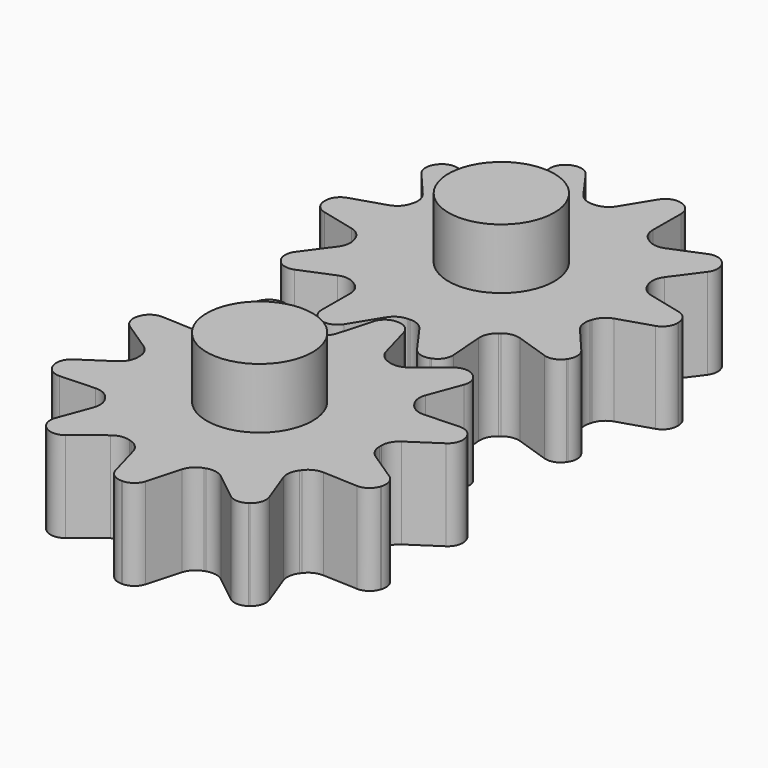
from build123d import *

# Parameters (mm, degrees)
F0_R     = 1.75
F1_DEPTH = 3
F2_R     = 0.5
F3_R     = 0.6
F5_ANGLE = 200
F7_R     = 1.75
F8_DEPTH = 5


with BuildPart() as f1:
    # F0 (on Top) → F1 (new body)
    with BuildSketch(Plane.XY):
        with BuildLine():
            Line((0.9, 3.897435), (0.4, 5.685948))
            ThreePointArc((0.4, 5.685948), (0, 5.7), (-0.4, 5.685948))
            Line((-0.4, 5.685948), (-0.9, 3.897435))
            ThreePointArc((-0.9, 3.897435), (-1.236068, 3.804226), (-1.56274, 3.682098))
            ThreePointArc((-1.56274, 3.682098), (-2.351141, 3.236068), (-3.01897, 2.624084))
            ThreePointArc((-3.01897, 2.624084), (-3.236068, 2.351141), (-3.428566, 2.060325))
            ThreePointArc((-3.428566, 2.060325), (-3.804226, 1.236068), (-3.984796, 0.348423))
            ThreePointArc((-3.984796, 0.348423), (-4, 0), (-3.984796, -0.348423))
            ThreePointArc((-3.984796, -0.348423), (-3.804226, -1.236068), (-3.428566, -2.060325))
            ThreePointArc((-3.428566, -2.060325), (-3.236068, -2.351141), (-3.01897, -2.624084))
            ThreePointArc((-3.01897, -2.624084), (-2.351141, -3.236068), (-1.56274, -3.682098))
            ThreePointArc((-1.56274, -3.682098), (-1.236068, -3.804226), (-0.9, -3.897435))
            ThreePointArc((-0.9, -3.897435), (0, -4), (0.9, -3.897435))
            ThreePointArc((0.9, -3.897435), (1.236068, -3.804226), (1.56274, -3.682098))
            ThreePointArc((1.56274, -3.682098), (2.351141, -3.236068), (3.01897, -2.624084))
            ThreePointArc((3.01897, -2.624084), (3.236068, -2.351141), (3.428566, -2.060325))
            ThreePointArc((3.428566, -2.060325), (3.804226, -1.236068), (3.984796, -0.348423))
            ThreePointArc((3.984796, -0.348423), (4, 0), (3.984796, 0.348423))
            ThreePointArc((3.984796, 0.348423), (3.804226, 1.236068), (3.428566, 2.060325))
            ThreePointArc((3.428566, 2.060325), (3.236068, 2.351141), (3.01897, 2.624084))
            ThreePointArc((3.01897, 2.624084), (2.351141, 3.236068), (1.56274, 3.682098))
            ThreePointArc((1.56274, 3.682098), (1.236068, 3.804226), (0.9, 3.897435))
        make_face()
        Circle(F0_R, mode=Mode.SUBTRACT)
        with BuildLine():
            Line((3.018509, 4.835142), (1.56274, 3.682098))
            ThreePointArc((1.56274, 3.682098), (2.351141, 3.236068), (3.01897, 2.624084))
            Line((3.01897, 2.624084), (3.665723, 4.364914))
            ThreePointArc((3.665723, 4.364914), (3.350376, 4.611397), (3.018509, 4.835142))
        make_face()
        with BuildLine():
            ThreePointArc((-3.01897, 2.624084), (-2.351141, 3.236068), (-1.56274, 3.682098))
            Line((-1.56274, 3.682098), (-3.018509, 4.835142))
            ThreePointArc((-3.018509, 4.835142), (-3.350376, 4.611397), (-3.665723, 4.364914))
            Line((-3.665723, 4.364914), (-3.01897, 2.624084))
        make_face()
        with BuildLine():
            Line((5.284051, 2.137477), (3.428566, 2.060325))
            ThreePointArc((3.428566, 2.060325), (3.804226, 1.236068), (3.984796, 0.348423))
            Line((3.984796, 0.348423), (5.531264, 1.376632))
            ThreePointArc((5.531264, 1.376632), (5.421022, 1.761397), (5.284051, 2.137477))
        make_face()
        with BuildLine():
            ThreePointArc((-3.984796, 0.348423), (-3.804226, 1.236068), (-3.428566, 2.060325))
            Line((-3.428566, 2.060325), (-5.284051, 2.137477))
            ThreePointArc((-5.284051, 2.137477), (-5.421022, 1.761397), (-5.531264, 1.376632))
            Line((-5.531264, 1.376632), (-3.984796, 0.348423))
        make_face()
        with BuildLine():
            Line((5.531264, -1.376632), (3.984796, -0.348423))
            ThreePointArc((3.984796, -0.348423), (3.804226, -1.236068), (3.428566, -2.060325))
            Line((3.428566, -2.060325), (5.284051, -2.137477))
            ThreePointArc((5.284051, -2.137477), (5.421022, -1.761397), (5.531264, -1.376632))
        make_face()
        with BuildLine():
            ThreePointArc((-3.428566, -2.060325), (-3.804226, -1.236068), (-3.984796, -0.348423))
            Line((-3.984796, -0.348423), (-5.531264, -1.376632))
            ThreePointArc((-5.531264, -1.376632), (-5.421022, -1.761397), (-5.284051, -2.137477))
            Line((-5.284051, -2.137477), (-3.428566, -2.060325))
        make_face()
        with BuildLine():
            Line((3.665723, -4.364914), (3.01897, -2.624084))
            ThreePointArc((3.01897, -2.624084), (2.351141, -3.236068), (1.56274, -3.682098))
            Line((1.56274, -3.682098), (3.018509, -4.835142))
            ThreePointArc((3.018509, -4.835142), (3.350376, -4.611397), (3.665723, -4.364914))
        make_face()
        with BuildLine():
            ThreePointArc((-1.56274, -3.682098), (-2.351141, -3.236068), (-3.01897, -2.624084))
            Line((-3.01897, -2.624084), (-3.665723, -4.364914))
            ThreePointArc((-3.665723, -4.364914), (-3.350376, -4.611397), (-3.018509, -4.835142))
            Line((-3.018509, -4.835142), (-1.56274, -3.682098))
        make_face()
        with BuildLine():
            Line((0.4, -5.685948), (0.9, -3.897435))
            ThreePointArc((0.9, -3.897435), (0, -4), (-0.9, -3.897435))
            Line((-0.9, -3.897435), (-0.4, -5.685948))
            ThreePointArc((-0.4, -5.685948), (0, -5.7), (0.4, -5.685948))
        make_face()
    extrude(amount=F1_DEPTH)

    # F2
    f2_edges = [f1.edges().sort_by_distance(p)[0] for p in [
        (0.4, 5.685948, 1.5),
        (-0.4, 5.685948, 1.5),
        (-3.018509, 4.835142, 1.5),
        (-3.665723, 4.364914, 1.5),
        (5.284051, 2.137477, 1.5),
        (5.531264, 1.376632, 1.5),
        (5.531264, -1.376632, 1.5),
        (-5.284051, 2.137477, 1.5),
        (5.284051, -2.137477, 1.5),
        (3.665723, -4.364914, 1.5),
        (3.018509, -4.835142, 1.5),
        (0.4, -5.685948, 1.5),
        (-0.4, -5.685948, 1.5),
        (-3.018509, -4.835142, 1.5),
        (-3.665723, -4.364914, 1.5),
        (-5.284051, -2.137477, 1.5),
        (-5.531264, -1.376632, 1.5),
        (-5.531264, 1.376632, 1.5),
        (3.665723, 4.364914, 1.5),
        (3.018509, 4.835142, 1.5),
    ]]
    fillet(f2_edges, radius=F2_R)

    # F3
    f3_edges = [f1.edges().sort_by_distance(p)[0] for p in [
        (-1.56274, 3.682098, 1.5),
        (0.9, 3.897435, 1.5),
        (1.56274, 3.682098, 1.5),
        (-0.9, 3.897435, 1.5),
        (-3.428566, 2.060325, 1.5),
        (-3.01897, 2.624084, 1.5),
        (3.01897, 2.624084, 1.5),
        (3.428566, 2.060325, 1.5),
        (3.984796, -0.348423, 1.5),
        (3.984796, 0.348423, 1.5),
        (3.01897, -2.624084, 1.5),
        (3.428566, -2.060325, 1.5),
        (0.9, -3.897435, 1.5),
        (1.56274, -3.682098, 1.5),
        (-0.9, -3.897435, 1.5),
        (-1.56274, -3.682098, 1.5),
        (-3.01897, -2.624084, 1.5),
        (-3.428566, -2.060325, 1.5),
        (-3.984796, -0.348423, 1.5),
        (-3.984796, 0.348423, 1.5),
    ]]
    fillet(f3_edges, radius=F3_R)


with BuildPart() as f5_1:
    # F5: copy of F1
    add(f1.part.rotate(Axis((0, 0, 7.18701), (0, 0, 1)), F5_ANGLE))


with BuildPart() as f5_1_1:
    # F6: moved
    add(f5_1.part.moved(Location((0, 10, 0))))


with BuildPart() as f8:
    # F7 (on Top) → F8 (new body)
    with BuildSketch(Plane.XY):
        Circle(F7_R)
        with Locations((0, 10)):
            Circle(F7_R)
    extrude(amount=F8_DEPTH)


solid = Compound([f1.part, f5_1_1.part, f8.part])
